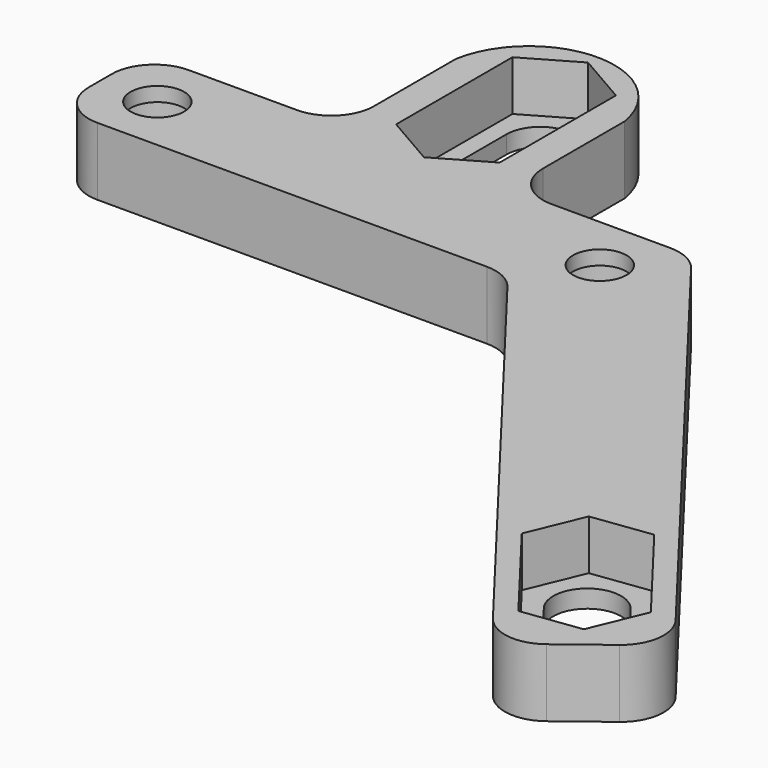
from build123d import *

# Parameters (mm, degrees)
SKETCH067_R             = 1.875
PAD035_DEPTH            = 4.75
SKETCH068_R             = 3
POCKET007018_DEPTH      = 3.75
POCKET007019_DEPTH      = 3.5
FILLET001_R             = 3
BODY008_PLACEMENT_ANGLE = 180


with BuildPart() as part:
    # Sketch067 → Pad035 (new body)
    with BuildSketch(Plane.XY.offset(-4)):
        with BuildLine():
            Line((17, -30.839247), (30.583921, -30.839247))
            Line((30.583921, -30.839247), (30.583921, -40.999999))
            ThreePointArc((30.583921, -40.999999), (36.500001, -45.999999), (42.416081, -40.999999))
            Line((42.416081, -30.839247), (42.416081, -40.999999))
            Line((42.416081, -30.839247), (55.233103, -30.839247))
            Line((55.233103, -30.839247), (83.336753, 5.788599))
            Line((83.336753, 5.788599), (75.403023, 11.875956))
            Line((75.403023, 11.875956), (48.766897, -22.839247))
            Line((48.766897, -22.839247), (17, -22.839247))
            Line((17, -22.839247), (17, -30.839247))
        make_face()
        with Locations((21, -26.839247)):
            Circle(SKETCH067_R, mode=Mode.SUBTRACT)
        with Locations((52, -26.839247)):
            Circle(SKETCH067_R, mode=Mode.SUBTRACT)
        with BuildLine():
            ThreePointArc((38.875001, -34.999999), (36.500001, -32.624999), (34.125001, -34.999999))
            Line((34.125001, -34.999999), (34.125001, -40.999999))
            ThreePointArc((34.125001, -40.999999), (36.500001, -43.374999), (38.875001, -40.999999))
            Line((38.875001, -34.999999), (38.875001, -40.999999))
        make_face(mode=Mode.SUBTRACT)
        with BuildLine():
            ThreePointArc((77.601735, 2.626292), (77.163221, 5.9563), (73.833213, 5.517786))
            Line((73.833213, 5.517786), (70.789534, 1.550921))
            ThreePointArc((70.789534, 1.550921), (71.228048, -1.779087), (74.558056, -1.340574))
            Line((77.601735, 2.626292), (74.558056, -1.340574))
        make_face(mode=Mode.SUBTRACT)
    extrude(amount=PAD035_DEPTH)

    # Sketch068 (on ShapeBinder) → Pocket007018 (cut)
    with BuildSketch(Plane(origin=(-1.5, -35, 0.75), x_dir=(0, 1, 0), z_dir=(0, 0, -1))):
        with Locations((8.353044, 53.594845)):
            Circle(SKETCH068_R)
        with Locations((8.160753, 22.5)):
            Circle(SKETCH068_R)
    extrude(amount=POCKET007018_DEPTH, mode=Mode.SUBTRACT)

    # Sketch069 → Pocket007019 (cut)
    with BuildSketch(Plane.XY.offset(-4)):
        Polygon((40.125001, -37.092894), (40.125001, -32.907104), (36.500001, -30.814209), (32.875001, -32.907104), (32.875001, -37.092894), (32.875001, -38.907104), (32.875001, -43.092894), (36.500001, -45.185788), (40.125001, -43.092894), (40.125001, -38.907104), align=None)
        Polygon((77.319431, 0.204926), (79.867471, 3.525818), (78.265513, 7.392932), (74.115516, 7.939152), (71.567477, 4.61826), (71.071837, 3.972287), (68.523798, 0.651395), (70.125755, -3.215719), (74.275752, -3.76194), (76.823792, -0.441047), align=None)
    extrude(amount=POCKET007019_DEPTH, mode=Mode.SUBTRACT)

    # Fillet001
    fillet001_edges = [part.edges().sort_by_distance(p)[0] for p in [
        (42.416081, -30.839247, -1.625),
        (55.233103, -30.839247, -1.625),
        (83.336753, 5.788599, -1.625),
        (75.403023, 11.875956, -1.625),
        (48.766897, -22.839247, -1.625),
        (17, -22.839247, -1.625),
        (17, -30.839247, -1.625),
        (30.583921, -30.839247, -1.625),
    ]]
    fillet(fillet001_edges, radius=FILLET001_R)


with BuildPart() as part_1:
    # Body008 placement: moved
    add(part.part.rotate(Axis((0, 0, 0), (1, 0, 0)), BODY008_PLACEMENT_ANGLE))


solid = part_1.part
